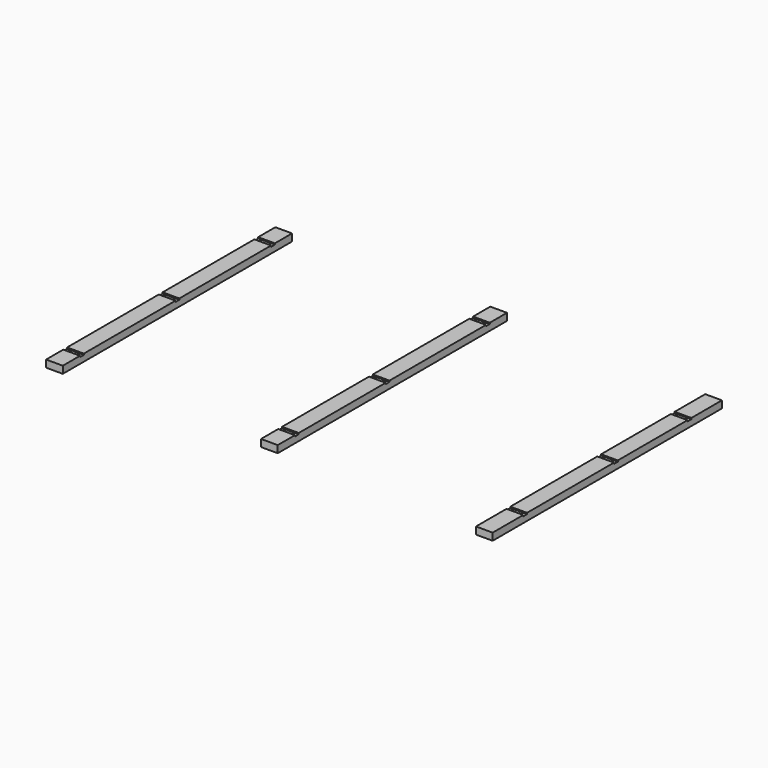
from build123d import *

# Parameters (mm, degrees)
F0_W      = 88.9
F0_H      = 38.1
F1_DEPTH  = 762
F2_W      = 88.9
F2_H      = 25.4
F3_DEPTH  = 6.35
F4_D      = 8.4328
F6_W      = 88.9
F6_H      = 1524
F7_DEPTH  = 38.1
F8_W      = 88.9
F8_H      = 25.4
F9_DEPTH  = 6.35
F10_D     = 8.4328
F11_W     = 88.9
F11_H     = 25.4
F12_DEPTH = 38.1
F14_W     = 88.9
F14_H     = 25.4
F15_DEPTH = 6.35
F16_D     = 8.4328


with BuildPart() as f1:
    # F0 (on Front) → F1 (new body, symmetric)
    with BuildSketch(Plane.XZ):
        Rectangle(F0_W, F0_H)
    extrude(amount=F1_DEPTH, both=True)

    # F2 (on face) → F3 (cut)
    with BuildSketch(Plane.XY.offset(19.05)):
        with Locations((0, 635)):
            Rectangle(F2_W, F2_H)
        with Locations((0, -635)):
            Rectangle(F2_W, F2_H)
        Rectangle(F2_W, F2_H)
    extrude(amount=-F3_DEPTH, mode=Mode.SUBTRACT)

    # F4 (through all)
    with Locations(Plane.XY.offset(19.05)):
        with Locations((-24.60625, 635), (24.60625, 635), (-24.60625, 0), (24.60625, 0), (-24.60625, -635), (24.60625, -635)):
            Hole(F4_D / 2)


with BuildPart() as f5_1:
    # F5: copy of F1
    add(f1.part.moved(Location((1143, 0, 0))))


with BuildPart() as f7:
    # F6 (on face) → F7 (new body)
    with BuildSketch(Plane(origin=(0, 0, -19.05), x_dir=(1, 0, 0), z_dir=(0, 0, -1))):
        with Locations((2286, 0)):
            Rectangle(F6_W, F6_H)
    extrude(amount=F7_DEPTH)

    # F8 (on face) → F9 (cut)
    with BuildSketch(Plane.XY.offset(-19.05)):
        with Locations((2286, 546.1)):
            Rectangle(F8_W, F8_H)
        with Locations((2286, 57.15)):
            Rectangle(F8_W, F8_H)
        with Locations((2286, -546.1)):
            Rectangle(F8_W, F8_H)
    extrude(amount=-F9_DEPTH, mode=Mode.SUBTRACT)

    # F10 (through all)
    with Locations(Plane.XY.offset(-19.05)):
        with Locations((2261.39375, -546.1), (2310.60625, -546.1), (2261.39375, 57.15), (2310.60625, 57.15), (2261.39375, 546.1), (2310.60625, 546.1)):
            Hole(F10_D / 2)


with BuildPart() as f12:
    # F11 (on face) → F12 (new body, through all)
    with BuildSketch(Plane.XY.offset(19.05)):
        with Locations((1143, 0)):
            Rectangle(F11_W, F11_H)
    extrude(amount=-F12_DEPTH)


with BuildPart() as f5_1_1:
    add(f5_1.part)

    # F13: union F12
    add(f12.part)

    # F14 (on face) → F15 (cut)
    with BuildSketch(Plane.XY.offset(19.05)):
        with Locations((1143, -31.75)):
            Rectangle(F14_W, F14_H)
    extrude(amount=-F15_DEPTH, mode=Mode.SUBTRACT)

    # F16 (through all)
    with Locations(Plane.XY.offset(19.05)):
        with Locations((1118.39375, -31.75), (1167.60625, -31.75)):
            Hole(F16_D / 2)


solid = Compound([f1.part, f7.part, f5_1_1.part])
